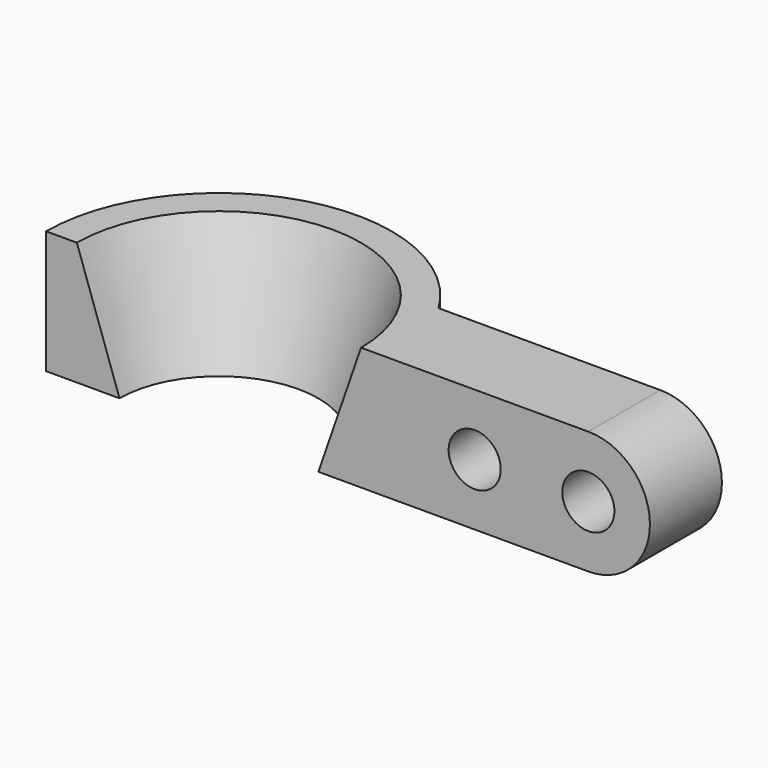
from build123d import *

# Parameters (mm, degrees)
F1_ANGLE = 180
F2_R     = 11
F3_DEPTH = 38


with BuildPart() as f1:
    # F0 (on Front) → F1 (revolve)
    with BuildSketch(Plane.XZ):
        Polygon((-73, 52), (-73, 0), (-42, 0), (-60, 52), align=None)
    revolve(axis=Axis((0, 0, -1.894746), (0, 0, -1)), revolution_arc=F1_ANGLE)

    # F2 (on face) → F3 (join)
    with BuildSketch(Plane.XZ):
        Polygon((73, 52), (60, 52), (42, 0), (73, 0), align=None)
        with BuildLine():
            Line((156, 52), (73, 52))
            Line((73, 52), (73, 0))
            Line((73, 0), (156, 0))
            ThreePointArc((156, 0), (182, 26), (156, 52))
        make_face()
        with Locations((108, 26)):
            Circle(F2_R, mode=Mode.SUBTRACT)
        with Locations((156, 26)):
            Circle(F2_R, mode=Mode.SUBTRACT)
    extrude(amount=-F3_DEPTH)


solid = f1.part
